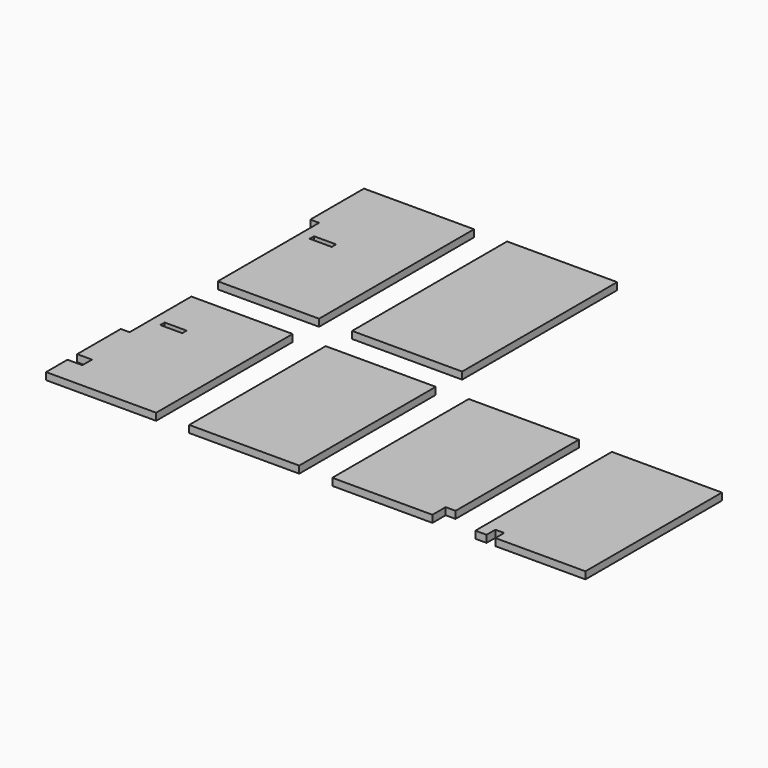
from build123d import *

# Parameters (mm, degrees)
F0_W     = 200
F0_H     = 50
F0_W_2   = 1000
F0_H_2   = 1760
F0_H_3   = 1550
F1_DEPTH = 65


with BuildPart() as f1:
    # F0 (on Top) → F1 (new body)
    with BuildSketch(Plane.XY):
        Polygon((320.112689, 902.641755), (-679.887311, 902.641755), (-679.887311, 292.641755), (-599.887311, 292.641755), (-599.887311, -857.358245), (320.112689, -857.358245), align=None)
        with Locations((-398.887311, 84.641755)):
            Rectangle(F0_W, F0_H, mode=Mode.SUBTRACT)
        with Locations((1120.112689, 22.641755)):
            Rectangle(F0_W_2, F0_H_2)
        Polygon((320.112689, -1157.358245), (-599.887311, -1157.358245), (-599.887311, -1859.358245), (-679.887311, -1859.358245), (-679.887311, -2354.358245), (-544.887311, -2354.358245), (-544.887311, -2464.358245), (-679.887311, -2464.358245), (-679.887311, -2707.358245), (320.112689, -2707.358245), align=None)
        with Locations((-398.887311, -1612.358245)):
            Rectangle(F0_W, F0_H, mode=Mode.SUBTRACT)
        with Locations((1120.112689, -1932.358245)):
            Rectangle(F0_W_2, F0_H_3)
        Polygon((2920.112689, -1157.358245), (1920.112689, -1157.358245), (1920.112689, -2707.358245), (2830.112689, -2707.358245), (2830.112689, -2557.358245), (2920.112689, -2557.358245), align=None)
        Polygon((4220.112689, -1157.358245), (3220.112689, -1157.358245), (3220.112689, -2707.358245), (3322.112689, -2707.358245), (3322.112689, -2607.358245), (3402.112689, -2607.358245), (3402.112689, -2707.358245), (4220.112689, -2707.358245), align=None)
    extrude(amount=F1_DEPTH)


solid = f1.part
